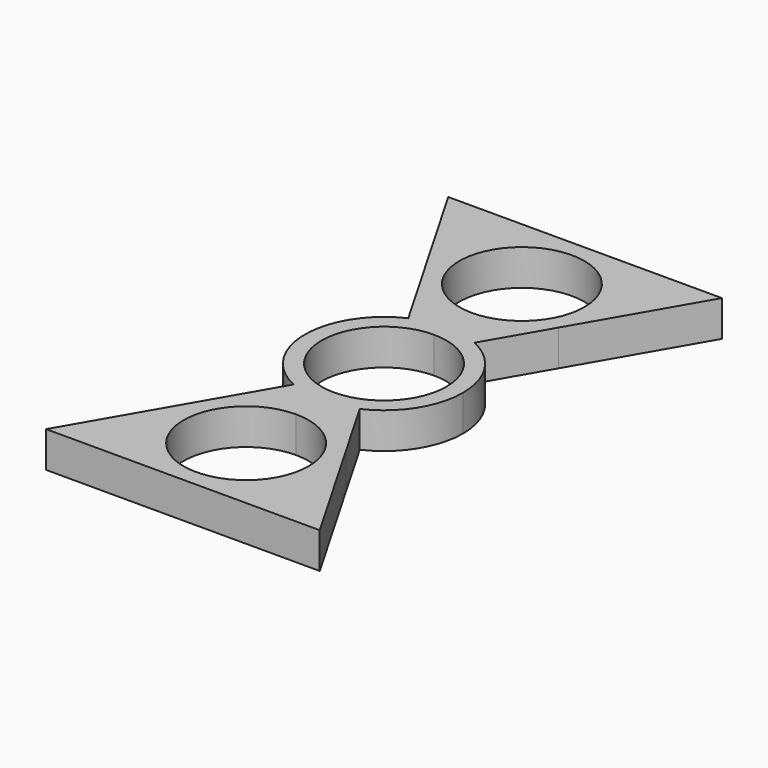
from build123d import *

# Parameters (mm, degrees)
F1_DEPTH = 6.35


with BuildPart() as f1:
    # F0 (on Top) → F1 (new body)
    with BuildSketch(Plane.XY):
        with BuildLine():
            ThreePointArc((5.856224, -12.683278), (11.768015, -7.528262), (13.97, 0))
            ThreePointArc((13.97, 0), (11.768015, 7.528262), (5.856224, 12.683278))
            ThreePointArc((5.856224, 12.683278), (2.997958, 13.644528), (0, 13.97))
            Line((0, 13.97), (0, 11.049))
            ThreePointArc((0, 11.049), (7.812823, 7.812823), (11.049, 0))
            ThreePointArc((11.049, 0), (7.812823, -7.812823), (0, -11.049))
            Line((0, -11.049), (0, -13.97))
            ThreePointArc((0, -13.97), (2.997958, -13.644528), (5.856224, -12.683278))
        make_face()
        with BuildLine():
            ThreePointArc((0, 13.97), (2.997958, 13.644528), (5.856224, 12.683278))
            Line((5.856224, 12.683278), (12.098374, 23.494999))
            ThreePointArc((12.098374, 23.494999), (6.984999, 18.381625), (0, 16.51))
            Line((0, 16.51), (0, 13.97))
        make_face()
        with BuildLine():
            Line((12.098374, -23.494998), (5.856224, -12.683278))
            ThreePointArc((5.856224, -12.683278), (2.997958, -13.644528), (0, -13.97))
            Line((0, -13.97), (0, -16.51))
            ThreePointArc((0, -16.51), (6.984999, -18.381625), (12.098374, -23.494998))
        make_face()
        with BuildLine():
            Line((0, 11.049), (0, 13.97))
            ThreePointArc((0, 13.97), (-2.997958, 13.644528), (-5.856224, 12.683278))
            ThreePointArc((-5.856224, 12.683278), (-13.97, 0), (-5.856224, -12.683278))
            ThreePointArc((-5.856224, -12.683278), (-2.997958, -13.644528), (0, -13.97))
            Line((0, -13.97), (0, -11.049))
            ThreePointArc((0, -11.049), (-11.049, 0), (0, 11.049))
        make_face()
        with BuildLine():
            ThreePointArc((-5.856224, 12.683278), (-2.997958, 13.644528), (0, 13.97))
            Line((0, 13.97), (0, 16.51))
            ThreePointArc((0, 16.51), (-6.984999, 18.381625), (-12.098374, 23.494998))
            Line((-12.098374, 23.494998), (-5.856224, 12.683278))
        make_face()
        with BuildLine():
            ThreePointArc((11.049, 30.48), (-7.812823, 38.292823), (0, 19.431))
            ThreePointArc((0, 19.431), (7.812823, 22.667177), (11.049, 30.48))
        make_face()
        with BuildLine():
            ThreePointArc((0, 16.51), (6.984999, 18.381625), (12.098374, 23.494999))
            ThreePointArc((12.098374, 23.494999), (13.493984, 26.864297), (13.97, 30.48))
            ThreePointArc((13.97, 30.48), (9.878282, 40.358282), (0, 44.45))
            ThreePointArc((0, 44.45), (-12.098375, 37.464999), (-12.098374, 23.494998))
            ThreePointArc((-12.098374, 23.494998), (-6.984999, 18.381625), (0, 16.51))
        make_face()
        with BuildLine():
            ThreePointArc((11.049, 30.48), (7.812823, 22.667177), (0, 19.431))
            ThreePointArc((0, 19.431), (-7.812823, 38.292823), (11.049, 30.48))
        make_face(mode=Mode.SUBTRACT)
        with BuildLine():
            ThreePointArc((13.97, 30.48), (13.493984, 26.864297), (12.098374, 23.494999))
            Line((12.098374, 23.494999), (24.19675, 44.45))
            Line((24.19675, 44.45), (0, 44.45))
            ThreePointArc((0, 44.45), (9.878282, 40.358282), (13.97, 30.48))
        make_face()
        with BuildLine():
            Line((0, -16.51), (0, -13.97))
            ThreePointArc((0, -13.97), (-2.997958, -13.644528), (-5.856224, -12.683278))
            Line((-5.856224, -12.683278), (-12.098374, -23.494998))
            ThreePointArc((-12.098374, -23.494998), (-6.984999, -18.381625), (0, -16.51))
        make_face()
        with BuildLine():
            Line((24.19675, -44.45), (12.098374, -23.494998))
            ThreePointArc((12.098374, -23.494998), (13.493984, -26.864297), (13.97, -30.48))
            ThreePointArc((13.97, -30.48), (9.878282, -40.358282), (0, -44.45))
            Line((0, -44.45), (24.19675, -44.45))
        make_face()
        with BuildLine():
            ThreePointArc((11.049, -30.48), (7.812823, -22.667177), (0, -19.431))
            ThreePointArc((0, -19.431), (-7.812823, -38.292823), (11.049, -30.48))
        make_face()
        with BuildLine():
            ThreePointArc((13.97, -30.48), (13.493984, -26.864297), (12.098374, -23.494998))
            ThreePointArc((12.098374, -23.494998), (6.984999, -18.381625), (0, -16.51))
            ThreePointArc((0, -16.51), (-6.984999, -18.381625), (-12.098374, -23.494998))
            ThreePointArc((-12.098374, -23.494998), (-12.098375, -37.464999), (0, -44.45))
            ThreePointArc((0, -44.45), (9.878282, -40.358282), (13.97, -30.48))
        make_face()
        with BuildLine():
            ThreePointArc((11.049, -30.48), (-7.812823, -38.292823), (0, -19.431))
            ThreePointArc((0, -19.431), (7.812823, -22.667177), (11.049, -30.48))
        make_face(mode=Mode.SUBTRACT)
        with BuildLine():
            Line((-24.19675, 44.45), (-12.098374, 23.494998))
            ThreePointArc((-12.098374, 23.494998), (-12.098375, 37.464999), (0, 44.45))
            Line((0, 44.45), (-24.19675, 44.45))
        make_face()
        with BuildLine():
            ThreePointArc((0, -44.45), (-12.098375, -37.464999), (-12.098374, -23.494998))
            Line((-12.098374, -23.494998), (-24.19675, -44.45))
            Line((-24.19675, -44.45), (0, -44.45))
        make_face()
    extrude(amount=F1_DEPTH)


solid = f1.part
